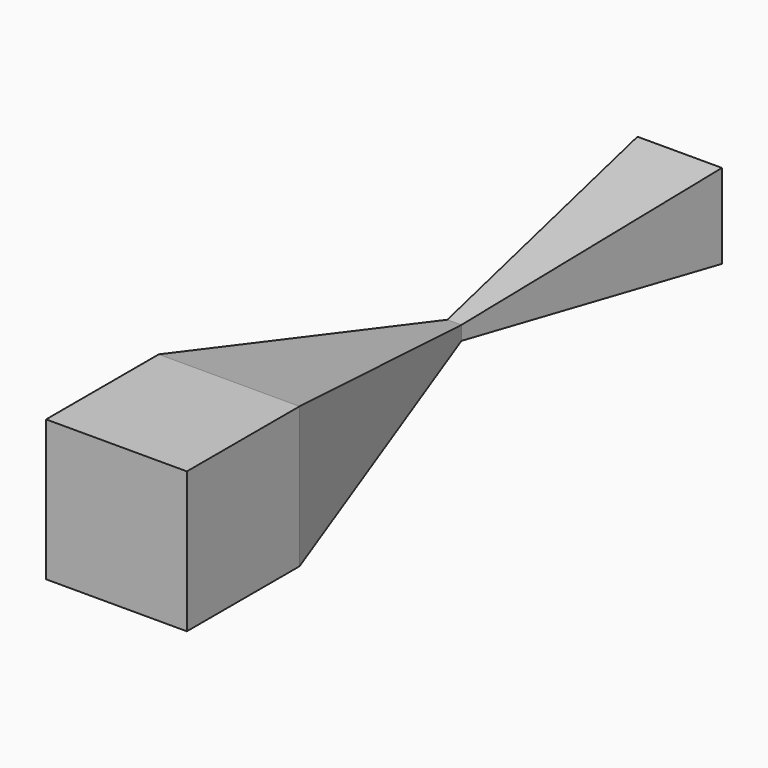
from build123d import *

# Parameters (mm, degrees)
F2_W      = 500
F2_H      = 500
F1_W      = 50
F1_H      = 50
F5_W      = 300
F5_H      = 300
F3_FACE_W = 500
F3_FACE_H = 500
F7_DEPTH  = 500


with BuildPart() as f3:
    # F2 (on offset) → F3 section 0
    with BuildSketch(Plane.XZ.offset(1000)):
        Rectangle(F2_W, F2_H)
    # F1 (on Front) → F3 section 1
    with BuildSketch(Plane.XZ):
        Rectangle(F1_W, F1_H)
    loft()

    # F1 (on Front) → F6 section 0
    with BuildSketch(Plane.XZ):
        Rectangle(F1_W, F1_H)
    # F5 (on offset) → F6 section 1
    with BuildSketch(Plane.XZ.offset(-1000)):
        Rectangle(F5_W, F5_H)
    loft()

    # F3_face (on face) → F7 (join)
    with BuildSketch(Plane.XZ.offset(1000)):
        Rectangle(F3_FACE_W, F3_FACE_H)
    extrude(amount=F7_DEPTH)


solid = f3.part
